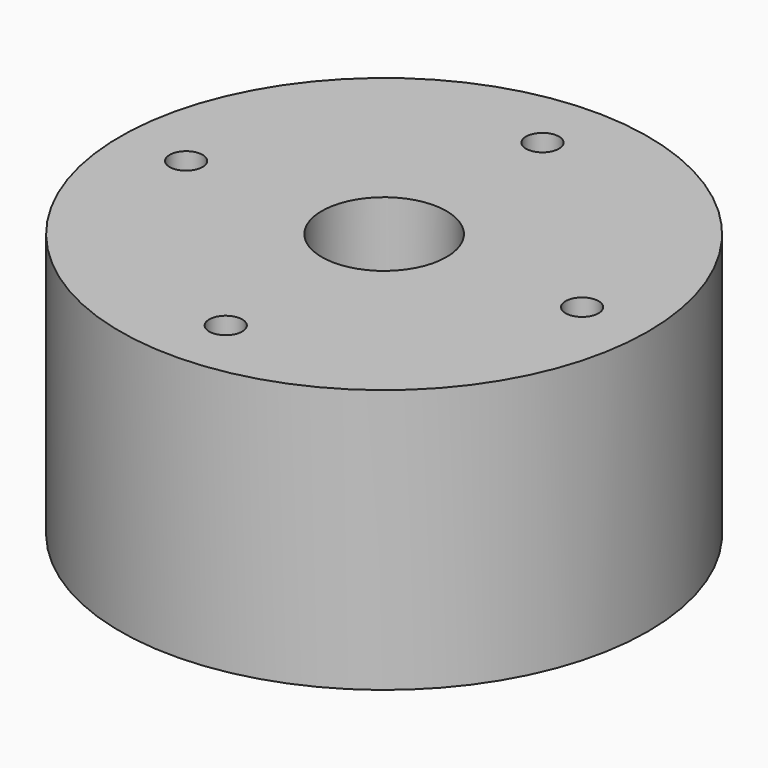
from build123d import *

# Parameters (mm, degrees)
F0_R     = 25.4
F0_R_2   = 1.5875
F0_R_3   = 6
F1_DEPTH = 19.05
F2_DEPTH = 25.4


with BuildPart() as f1:
    # F0 (on Top) → F1 (new body)
    with BuildSketch(Plane.XY):
        Circle(F0_R)
        with Locations((0, -19.05)):
            Circle(F0_R_2, mode=Mode.SUBTRACT)
        with Locations((-19.05, 0)):
            Circle(F0_R_2, mode=Mode.SUBTRACT)
        Circle(F0_R_3, mode=Mode.SUBTRACT)
        with Locations((19.05, 0)):
            Circle(F0_R_2, mode=Mode.SUBTRACT)
        with Locations((0, 19.05)):
            Circle(F0_R_2, mode=Mode.SUBTRACT)
    extrude(amount=F1_DEPTH)

    # F0 (on Top) → F2 (join)
    with BuildSketch(Plane.XY):
        Circle(F0_R)
        with Locations((0, -19.05)):
            Circle(F0_R_2, mode=Mode.SUBTRACT)
        with Locations((-19.05, 0)):
            Circle(F0_R_2, mode=Mode.SUBTRACT)
        Circle(F0_R_3, mode=Mode.SUBTRACT)
        with Locations((19.05, 0)):
            Circle(F0_R_2, mode=Mode.SUBTRACT)
        with Locations((0, 19.05)):
            Circle(F0_R_2, mode=Mode.SUBTRACT)
    extrude(amount=F2_DEPTH)


solid = f1.part
